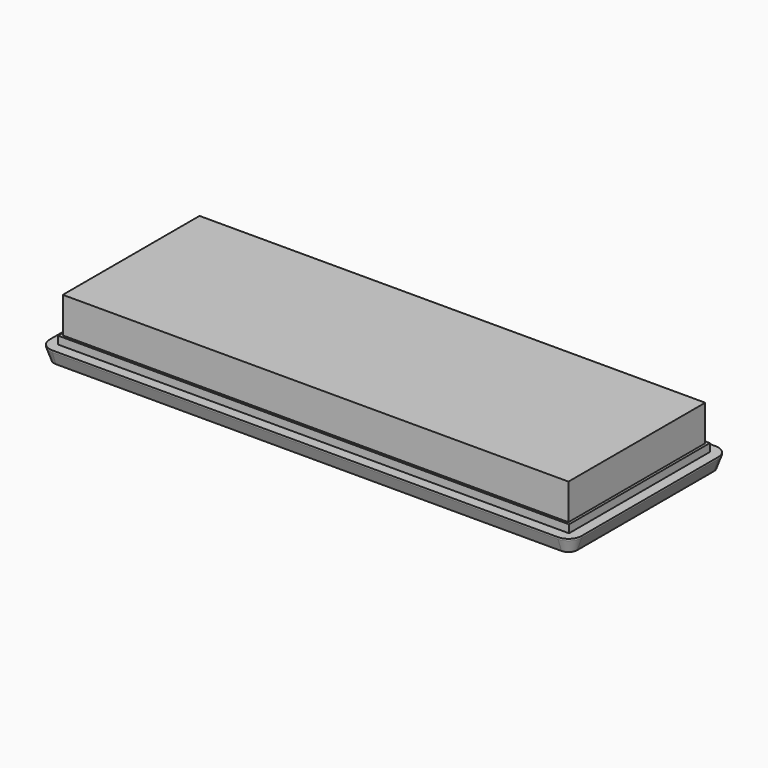
from build123d import *

# Parameters (mm, degrees)
F1_DEPTH = 8
F2_SIZE2 = 2.5
F2_SIZE  = 7
F3_SIZE2 = 7
F3_SIZE  = 2.5
F4_W     = 293
F4_H     = 101
F5_DEPTH = 4.5
F6_W     = 290
F6_H     = 98
F7_DEPTH = 25


with BuildPart() as f1:
    # F0 (on Top) → F1 (new body)
    with BuildSketch(Plane.XY):
        with BuildLine():
            Line((-145, -56.5), (145, -56.5))
            ThreePointArc((145, -56.5), (150.303301, -54.303301), (152.5, -49))
            Line((152.5, -49), (152.5, 49))
            ThreePointArc((152.5, 49), (150.303301, 54.303301), (145, 56.5))
            Line((145, 56.5), (-145, 56.5))
            ThreePointArc((-145, 56.5), (-150.303301, 54.303301), (-152.5, 49))
            Line((-152.5, 49), (-152.5, -49))
            ThreePointArc((-152.5, -49), (-150.303301, -54.303301), (-145, -56.5))
        make_face()
        with BuildLine():
            ThreePointArc((144.75, -46.25), (144.017767, -48.017767), (142.25, -48.75))
            Line((142.25, -48.75), (-142.25, -48.75))
            ThreePointArc((-142.25, -48.75), (-144.017767, -48.017767), (-144.75, -46.25))
            Line((-144.75, -46.25), (-144.75, 46.25))
            ThreePointArc((-144.75, 46.25), (-144.017767, 48.017767), (-142.25, 48.75))
            Line((-142.25, 48.75), (142.25, 48.75))
            ThreePointArc((142.25, 48.75), (144.017767, 48.017767), (144.75, 46.25))
            Line((144.75, 46.25), (144.75, -46.25))
        make_face(mode=Mode.SUBTRACT)
    extrude(amount=F1_DEPTH)

    # F2
    f2_edges = [f1.edges().sort_by_distance(p)[0] for p in [
        (0, 56.5, 0),
    ]]
    chamfer(f2_edges, length=F2_SIZE, length2=F2_SIZE2)

    # F3
    f3_edges = [f1.edges().sort_by_distance(p)[0] for p in [
        (0, 48.75, 0),
    ]]
    chamfer(f3_edges, length=F3_SIZE, length2=F3_SIZE2)

    # F4 (on face) → F5 (join)
    with BuildSketch(Plane.XY.offset(8)):
        Rectangle(F4_W, F4_H)
        with BuildLine():
            Line((-142.25, 48.75), (142.25, 48.75))
            ThreePointArc((142.25, 48.75), (144.017767, 48.017767), (144.75, 46.25))
            Line((144.75, 46.25), (144.75, -46.25))
            ThreePointArc((144.75, -46.25), (144.017767, -48.017767), (142.25, -48.75))
            Line((142.25, -48.75), (-142.25, -48.75))
            ThreePointArc((-142.25, -48.75), (-144.017767, -48.017767), (-144.75, -46.25))
            Line((-144.75, -46.25), (-144.75, 46.25))
            ThreePointArc((-144.75, 46.25), (-144.017767, 48.017767), (-142.25, 48.75))
        make_face(mode=Mode.SUBTRACT)
    extrude(amount=F5_DEPTH)


with BuildPart() as f7:
    # F6 (on face) → F7 (new body)
    with BuildSketch(Plane.XY.offset(8)):
        Rectangle(F6_W, F6_H)
    extrude(amount=F7_DEPTH)


solid = Compound([f1.part, f7.part])
